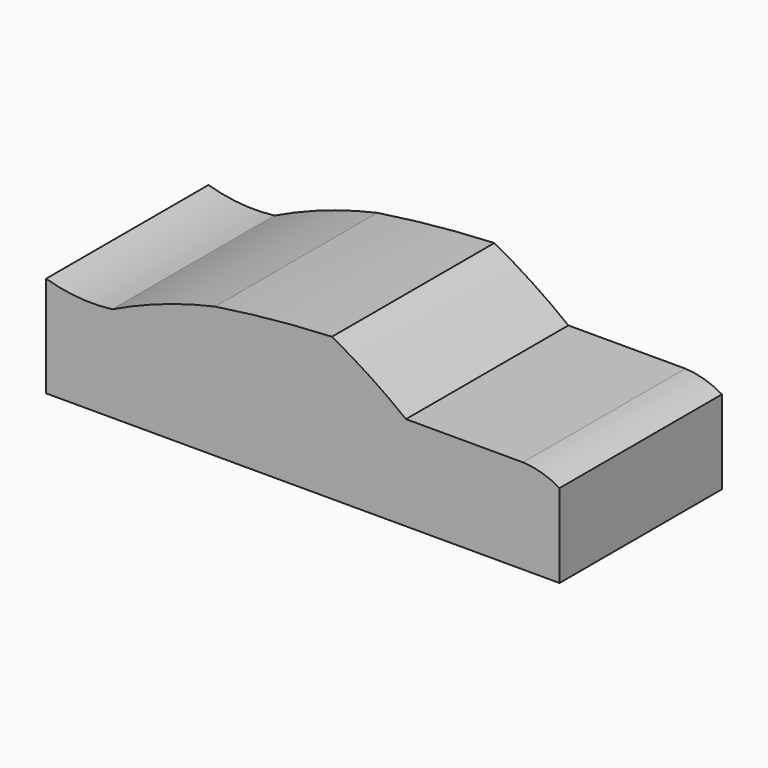
from build123d import *

# Parameters (mm, degrees)
F0_W     = 109.22
F0_H     = 30.48
F1_DEPTH = 43.18
F3_DEPTH = 43.181


with BuildPart() as f1:
    # F0 (on Front) → F1 (new body)
    with BuildSketch(Plane.XZ):
        with Locations((54.61, 15.24)):
            Rectangle(F0_W, F0_H)
    extrude(amount=F1_DEPTH)

    # F2 (on Front) → F3 (cut, through all)
    with BuildSketch(Plane.XZ):
        with BuildLine():
            ThreePointArc((101.450022, 20.072624), (105.476673, 19.40642), (109.22, 17.78))
            Line((109.22, 17.78), (109.22, 32.641226))
            Line((109.22, 32.641226), (0, 32.641226))
            Line((0, 32.641226), (0, 21.475643))
            ThreePointArc((0, 21.475643), (6.977982, 20.178672), (14.074022, 20.322152))
            ThreePointArc((14.074022, 20.322152), (24.771538, 24.774012), (35.918022, 27.938154))
            ThreePointArc((35.918022, 27.938154), (48.33104, 29.494845), (60.810022, 30.378755))
            ThreePointArc((60.810022, 30.378755), (68.901182, 25.557514), (76.558022, 20.072624))
            Line((76.558022, 20.072624), (101.450022, 20.072624))
        make_face()
    extrude(amount=F3_DEPTH, mode=Mode.SUBTRACT)


solid = f1.part
